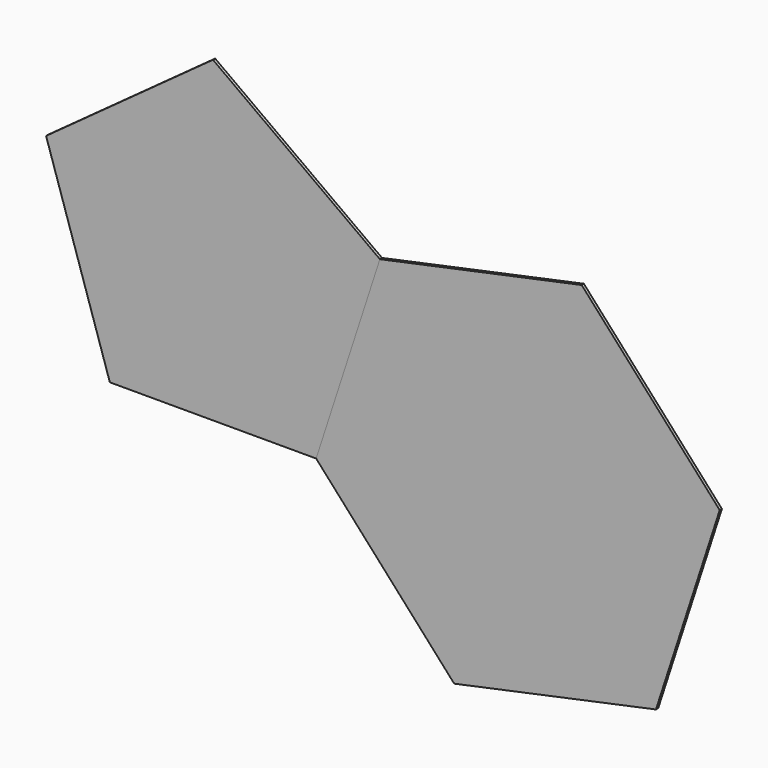
from build123d import *

# Parameters (mm, degrees)
F1_DEPTH = 1
F2_DEPTH = 1


with BuildPart() as f1:
    # F0 (on Front) → F1 (new body)
    with BuildSketch(Plane.XZ):
        Polygon((-37.5, -51.614322), (37.5, -51.614322), (60.676275, 19.714917), (0, 63.798811), (-60.676275, 19.714917), align=None)
    extrude(amount=-F1_DEPTH)


with BuildPart() as f2:
    # F0 (on Front) → F2 (new body)
    with BuildSketch(Plane.XZ):
        Polygon((60.676275, 19.714917), (37.5, -51.614322), (87.684795, -107.350184), (161.045866, -91.756807), (184.22214, -20.427568), (134.037345, 35.308294), align=None)
    extrude(amount=-F2_DEPTH)


solid = Compound([f1.part, f2.part])
